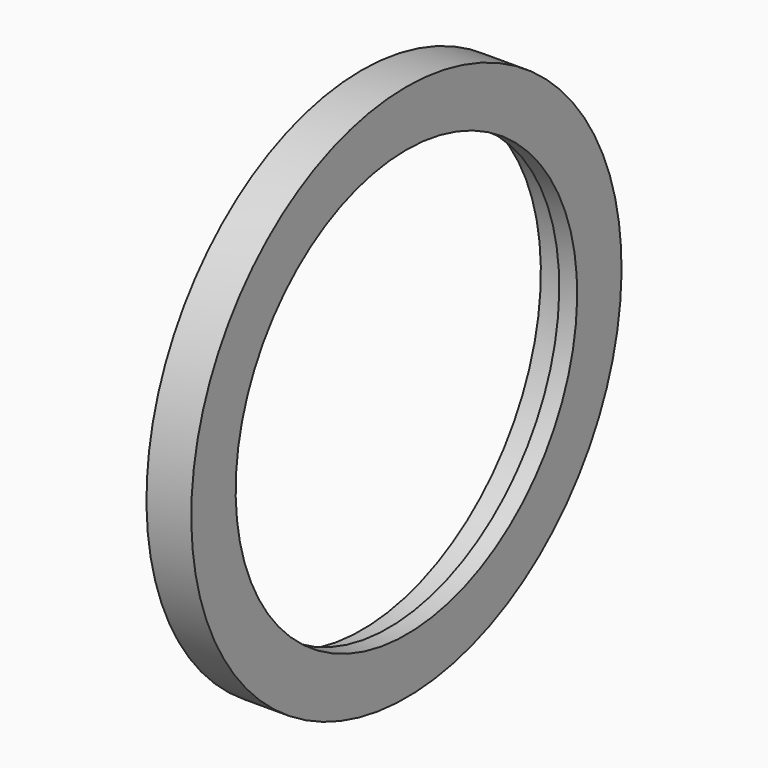
from build123d import *

# Parameters (mm, degrees)
F0_W = 0.5
F0_H = 1.75


with BuildPart() as f1:
    # F0 (on Front) → F1 (revolve)
    with BuildSketch(Plane.XZ):
        Polygon((12, 98.25), (12, 95.25), (20, 95.25), (20, 120), (0, 120), (0, 100), (12, 100), (12.5, 100), (12.5, 98.25), align=None)
        with Locations((12.25, 99.125)):
            Rectangle(F0_W, F0_H)
    revolve(axis=Axis((10, 0, 0), (1, 0, 0)))


solid = f1.part
